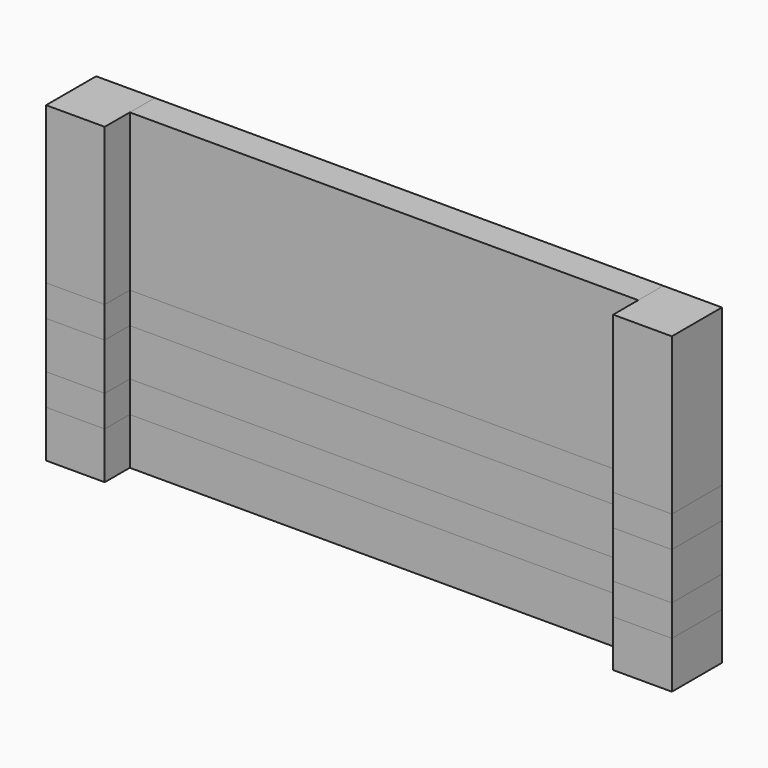
from build123d import *

# Parameters (mm, degrees)
F0_W      = 47.625
F0_H      = 38.1
F0_H_2    = 25.4
F0_H_3    = 127
F0_W_2    = 412.75
F1_DEPTH  = 25.4
F2_DEPTH  = 50.8
F3_DEPTH  = 50.8
F4_DEPTH  = 50.8
F5_DEPTH  = 25.4
F6_DEPTH  = 50.8
F7_DEPTH  = 50.8
F8_DEPTH  = 25.4
F9_DEPTH  = 50.8
F10_DEPTH = 25.4


with BuildPart() as f1:
    # F0 (on Front) → F1 (new body)
    with BuildSketch(Plane.XZ):
        with Locations((218.5180362463, -33.0260505199)):
            Rectangle(F0_W, F0_H)
        with Locations((218.5180362463, -96.5260505199)):
            Rectangle(F0_W, F0_H)
        with Locations((-241.8569637537, -33.0260505199)):
            Rectangle(F0_W, F0_H)
        with Locations((218.5180362463, -64.7760505199)):
            Rectangle(F0_W, F0_H_2)
        with Locations((218.5180362463, 74.9239494801)):
            Rectangle(F0_W, F0_H_3)
        with Locations((-11.6694637537, 74.9239494801)):
            Rectangle(F0_W_2, F0_H_3)
        with Locations((-241.8569637537, -64.7760505199)):
            Rectangle(F0_W, F0_H_2)
        with Locations((218.5180362463, -1.2760505199)):
            Rectangle(F0_W, F0_H_2)
        with Locations((-241.8569637537, 74.9239494801)):
            Rectangle(F0_W, F0_H_3)
        with Locations((-11.6694637537, -96.5260505199)):
            Rectangle(F0_W_2, F0_H)
        with Locations((-241.8569637537, -1.2760505199)):
            Rectangle(F0_W, F0_H_2)
        with Locations((-241.8569637537, -96.5260505199)):
            Rectangle(F0_W, F0_H)
    extrude(amount=F1_DEPTH)


with BuildPart() as f2:
    # F0 (on Front) → F2 (new body)
    with BuildSketch(Plane.XZ):
        with Locations((-241.8569637537, 74.9239494801)):
            Rectangle(F0_W, F0_H_3)
    extrude(amount=F2_DEPTH)


with BuildPart() as f3:
    # F0 (on Front) → F3 (new body)
    with BuildSketch(Plane.XZ):
        with Locations((218.5180362463, 74.9239494801)):
            Rectangle(F0_W, F0_H_3)
    extrude(amount=F3_DEPTH)


with BuildPart() as f4:
    # F0 (on Front) → F4 (new body)
    with BuildSketch(Plane.XZ):
        with Locations((-241.8569637537, -64.7760505199)):
            Rectangle(F0_W, F0_H_2)
    extrude(amount=F4_DEPTH)


with BuildPart() as f4b:
    # F0 (on Front) → F4, piece 2 (new body)
    with BuildSketch(Plane.XZ):
        with Locations((218.5180362463, -64.7760505199)):
            Rectangle(F0_W, F0_H_2)
    extrude(amount=F4_DEPTH)


with BuildPart() as f5:
    # F0 (on Front) → F5 (new body)
    with BuildSketch(Plane.XZ):
        with Locations((-11.6694637537, -64.7760505199)):
            Rectangle(F0_W_2, F0_H_2)
    extrude(amount=F5_DEPTH)


with BuildPart() as f6:
    # F0 (on Front) → F6 (new body)
    with BuildSketch(Plane.XZ):
        with Locations((-241.8569637537, -96.5260505199)):
            Rectangle(F0_W, F0_H)
    extrude(amount=F6_DEPTH)


with BuildPart() as f6b:
    # F0 (on Front) → F6, piece 2 (new body)
    with BuildSketch(Plane.XZ):
        with Locations((218.5180362463, -96.5260505199)):
            Rectangle(F0_W, F0_H)
    extrude(amount=F6_DEPTH)


with BuildPart() as f7:
    # F0 (on Front) → F7 (new body)
    with BuildSketch(Plane.XZ):
        with Locations((-241.8569637537, -1.2760505199)):
            Rectangle(F0_W, F0_H_2)
    extrude(amount=F7_DEPTH)


with BuildPart() as f7b:
    # F0 (on Front) → F7, piece 2 (new body)
    with BuildSketch(Plane.XZ):
        with Locations((218.5180362463, -1.2760505199)):
            Rectangle(F0_W, F0_H_2)
    extrude(amount=F7_DEPTH)


with BuildPart() as f8:
    # F0 (on Front) → F8 (new body)
    with BuildSketch(Plane.XZ):
        with Locations((-11.6694637537, -1.2760505199)):
            Rectangle(F0_W_2, F0_H_2)
    extrude(amount=F8_DEPTH)


with BuildPart() as f9:
    # F0 (on Front) → F9 (new body)
    with BuildSketch(Plane.XZ):
        with Locations((-241.8569637537, -33.0260505199)):
            Rectangle(F0_W, F0_H)
    extrude(amount=F9_DEPTH)


with BuildPart() as f9b:
    # F0 (on Front) → F9, piece 2 (new body)
    with BuildSketch(Plane.XZ):
        with Locations((218.5180362463, -33.0260505199)):
            Rectangle(F0_W, F0_H)
    extrude(amount=F9_DEPTH)


with BuildPart() as f10:
    # F0 (on Front) → F10 (new body)
    with BuildSketch(Plane.XZ):
        with Locations((-11.6694637537, -33.0260505199)):
            Rectangle(F0_W_2, F0_H)
    extrude(amount=F10_DEPTH)


solid = Compound([f1.part, f2.part, f3.part, f4.part, f4b.part, f5.part, f6.part, f6b.part, f7.part, f7b.part, f8.part, f9.part, f9b.part, f10.part])
